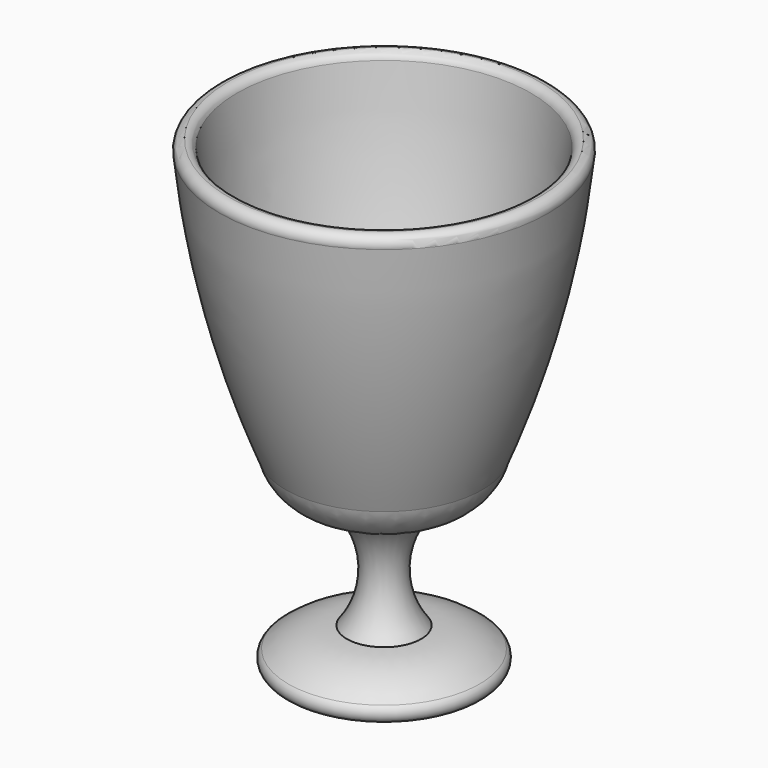
from build123d import *


with BuildPart() as f1:
    # F0 (on Front) → F1 (revolve)
    with BuildSketch(Plane.XZ):
        with BuildLine():
            ThreePointArc((-25.167799, 43.043388), (-25.711791, 43.894455), (-26.659042, 44.245111))
            ThreePointArc((-26.659042, 44.245111), (-27.876348, 43.615957), (-28.150286, 42.273338))
            ThreePointArc((-28.150286, 42.273338), (-24.098568, 19.237315), (-16.833132, -2.995279))
            ThreePointArc((-16.833132, -2.995279), (-13.67958, -7.846283), (-8.208565, -9.729137))
            ThreePointArc((-8.208565, -9.729137), (-3.546487, -18.900148), (-6.418417, -28.779137))
            ThreePointArc((-6.418417, -28.779137), (-11.710084, -29.687043), (-16.39648, -32.306915))
            ThreePointArc((-16.39648, -32.306915), (-16.895383, -34.070804), (-15.398673, -35.129137))
            Line((-15.398673, -35.129137), (-0.068417, -35.129137))
            Line((-0.068417, -35.129137), (-0.068417, -6.554137))
            Line((-0.068417, -6.554137), (-7.198638, -6.554137))
            ThreePointArc((-7.198638, -6.554137), (-10.544252, -5.900578), (-13.397952, -4.035997))
            ThreePointArc((-13.397952, -4.035997), (-21.021574, 19.069021), (-25.167799, 43.043388))
        make_face()
    revolve(axis=Axis((-0.068417, 0, 8.776672), (0, 0, 1)))


solid = f1.part
